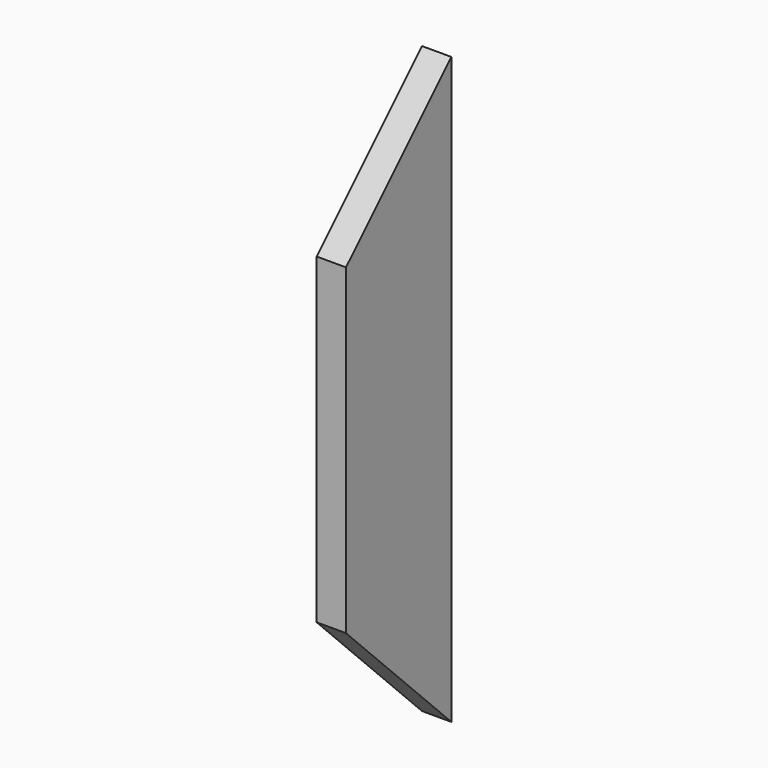
from build123d import *

# Parameters (mm, degrees)
F0_W     = 20
F0_H     = 90
F1_DEPTH = 400
F3_DEPTH = 20.001


with BuildPart() as f1:
    # F0 (on Top) → F1 (new body)
    with BuildSketch(Plane.XY):
        with Locations((-10.983761, 15.267903)):
            Rectangle(F0_W, F0_H)
    extrude(amount=F1_DEPTH)

    # F2 (on face) → F3 (cut, through all)
    with BuildSketch(Plane.YZ.offset(-0.983761)):
        Polygon((60.267903, 0), (-29.732097, 90), (-29.732097, 0), align=None)
        Polygon((-29.732097, 310), (60.267903, 400), (-29.732097, 400), align=None)
    extrude(amount=-F3_DEPTH, mode=Mode.SUBTRACT)


solid = f1.part
